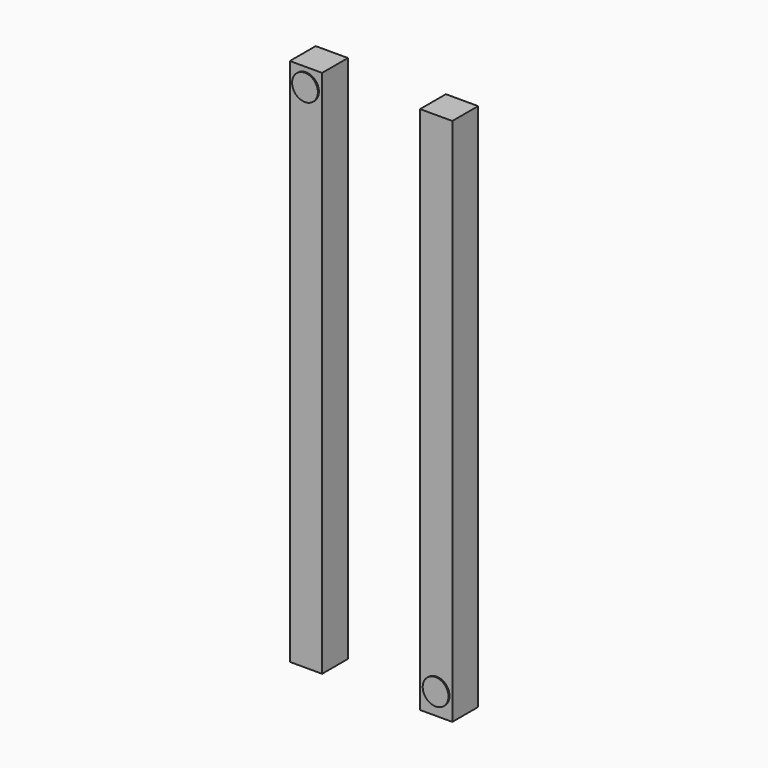
from build123d import *

# Parameters (mm, degrees)
F0_W     = 25
F0_H     = 25
F1_DEPTH = 410
F2_R     = 10
F3_DEPTH = 1
F4_DEPTH = 1


with BuildPart() as f1:
    # F0 (on Top) → F1 (new body)
    with BuildSketch(Plane.XY):
        with Locations((-67.090479, 2.824143)):
            Rectangle(F0_W, F0_H)
        with Locations((33.80853, 2.824143)):
            Rectangle(F0_W, F0_H)
    extrude(amount=F1_DEPTH)

    # F2 (on face) → F3 (join)
    with BuildSketch(Plane.XZ.offset(9.675857)):
        with Locations((-67.090479, 396.413863)):
            Circle(F2_R)
    extrude(amount=F3_DEPTH)

    # F2 (on face) → F4 (join)
    with BuildSketch(Plane.XZ.offset(9.675857)):
        with Locations((34.149244, 17.021533)):
            Circle(F2_R)
    extrude(amount=F4_DEPTH)


solid = f1.part
